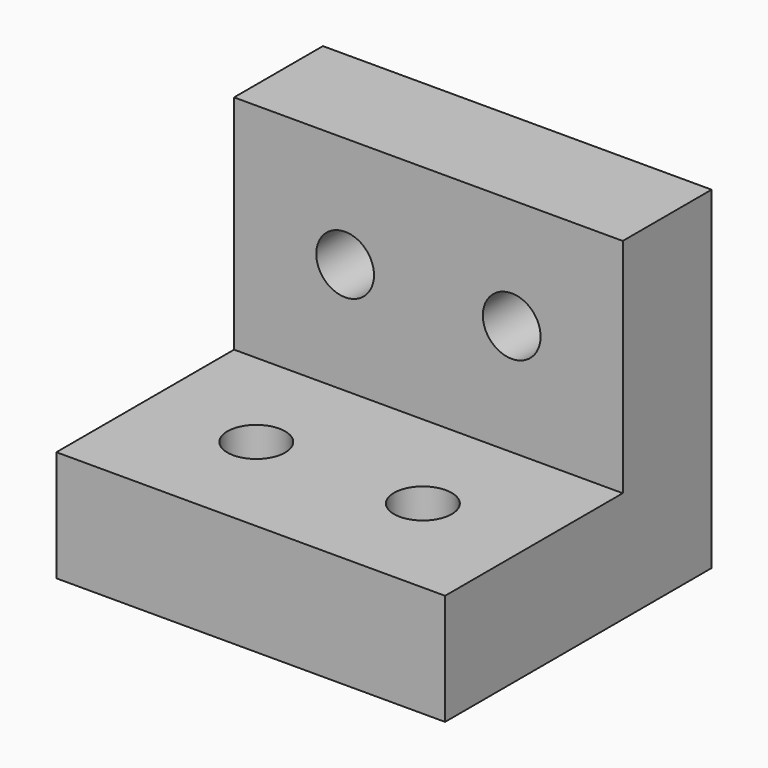
from build123d import *

# Parameters (mm, degrees)
F1_DEPTH      = 17.5
F1_DEPTH_BACK = 17.5
F2_R          = 2.6
F3_DEPTH      = 10.001
F4_R          = 2.6
F5_DEPTH      = 10.001


with BuildPart() as f1:
    # F0 (on Right) → F1 (new body, two sides)
    with BuildSketch(Plane.YZ) as f1_sk:
        Polygon((-30, 0), (0, 0), (0, 30), (-10, 30), (-10, 10), (-30, 10), align=None)
    extrude(amount=F1_DEPTH)
    extrude(f1_sk.sketch, amount=-F1_DEPTH_BACK)

    # F2 (on face) → F3 (cut, through all)
    with BuildSketch(Plane.XZ.offset(10)):
        with Locations((-7.5, 20)):
            Circle(F2_R)
        with Locations((7.5, 20)):
            Circle(F2_R)
    extrude(amount=-F3_DEPTH, mode=Mode.SUBTRACT)

    # F4 (on face) → F5 (cut, through all)
    with BuildSketch(Plane.XY.offset(10)):
        with Locations((-7.5, -20)):
            Circle(F4_R)
        with Locations((7.5, -20)):
            Circle(F4_R)
    extrude(amount=-F5_DEPTH, mode=Mode.SUBTRACT)


solid = f1.part
